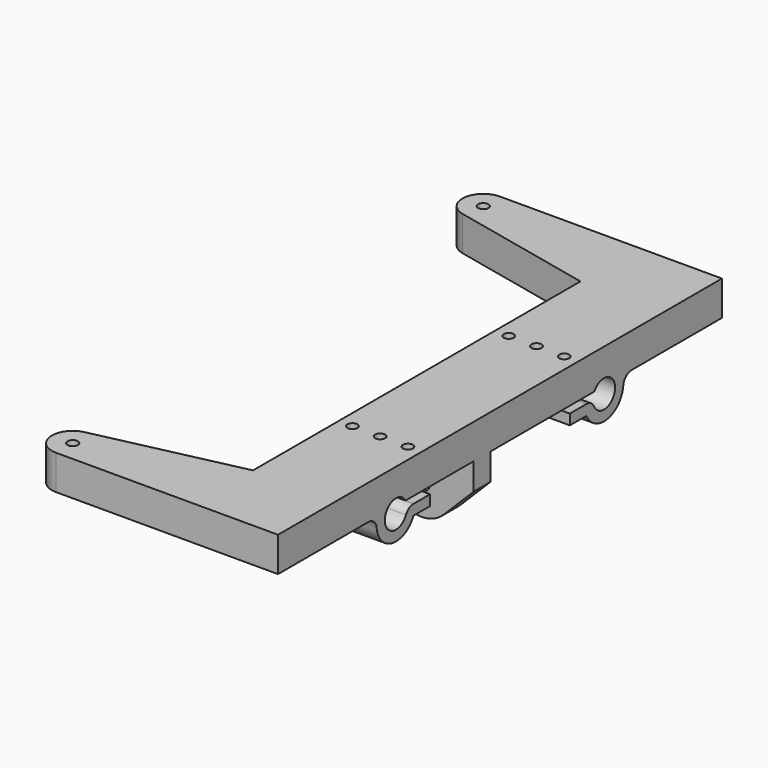
from build123d import *

# Parameters (mm, degrees)
SKETCH016_R        = 1.5
PAD011_DEPTH       = 10
SKETCH018_R        = 4
POCKET006005_DEPTH = 70.001
SKETCH019_W        = 2.985647
SKETCH019_H        = 2.199577
PAD012_DEPTH       = 24
SKETCH020_R        = 2.4
PAD013_DEPTH       = 6
SKETCH021_R        = 1.45
POCKET006006_DEPTH = 15.001


with BuildPart() as pocket006006:
    # Sketch016 → Pad011 (new body)
    with BuildSketch(Plane.XY.offset(2)):
        with BuildLine():
            ThreePointArc((-84.702782, 105.641821), (-80.035159, 112.152274), (-85.999598, 117.5))
            Line((-149.999599, 117.5), (-85.999598, 117.5))
            Line((-149.999599, -42.5), (-149.999599, 117.5))
            Line((-85.999599, -42.5), (-149.999599, -42.5))
            ThreePointArc((-85.999599, -42.5), (-80.035159, -37.152275), (-84.702781, -30.641821))
            Line((-125.999599, -21.5), (-84.702781, -30.641821))
            Line((-125.999599, 96.5), (-125.999599, -21.5))
            Line((-84.702782, 105.641821), (-125.999599, 96.5))
        make_face()
        with Locations((-85.999599, 111.5)):
            Circle(SKETCH016_R, mode=Mode.SUBTRACT)
        with Locations((-85.999599, -36.5)):
            Circle(SKETCH016_R, mode=Mode.SUBTRACT)
    extrude(amount=PAD011_DEPTH)

    # Sketch018 → Pocket006005 (cut, through all)
    with BuildSketch(Plane(origin=(-149.999599, 0, 2), x_dir=(0, -1, 0), z_dir=(-1, 0, 0))):
        with Locations((-75, -2)):
            Circle(SKETCH018_R)
        with Locations((0, -2)):
            Circle(SKETCH018_R)
    extrude(amount=-POCKET006005_DEPTH, mode=Mode.SUBTRACT)

    # Sketch019 → Pad012 (new body)
    with BuildSketch(Plane(origin=(-149.999599, 0, 2), x_dir=(0, -1, 0), z_dir=(-1, 0, 0))):
        with BuildLine():
            ThreePointArc((-3.614026, -3.714297), (1.858661, -5.541946), (3.464102, 0))
            Line((3.464102, 0), (9.949874, 0))
            ThreePointArc((9.949874, 0), (7.937413, -0.775141), (6.964912, -2.700001))
            ThreePointArc((-6.324555, -5), (1.193739, -8.897462), (6.964912, -2.700001))
            Line((-6.324555, -5), (-12.324555, -5))
            Line((-12.324555, -5), (-12.324555, -2))
            Line((-12.324555, -2), (-6.324546, -2))
            ThreePointArc((-3.614026, -3.714297), (-4.720978, -2.464543), (-6.324546, -2))
        make_face()
        with BuildLine():
            ThreePointArc((-78.464102, 0), (-76.858656, -5.541948), (-71.385969, -3.714287))
            ThreePointArc((-68.675445, -2), (-70.279013, -2.464538), (-71.385969, -3.714287))
            Line((-68.675445, -2), (-62.675445, -2))
            Line((-62.675445, -2), (-62.675445, -5))
            Line((-62.675445, -5), (-68.675445, -5))
            ThreePointArc((-81.964912, -2.700001), (-76.193739, -8.897462), (-68.675445, -5))
            ThreePointArc((-81.964912, -2.700001), (-82.937413, -0.775141), (-84.949874, 0))
            Line((-84.949874, 0), (-78.464102, 0))
        make_face()
        with Locations((-32.507176, -1.099789)):
            Rectangle(SKETCH019_W, SKETCH019_H)
    extrude(amount=-PAD012_DEPTH)

    # Sketch020 → Pad013 (new body)
    with BuildSketch(Plane(origin=(0, 34, 2), x_dir=(-1, 0, 0), z_dir=(0, 1, 0))):
        with BuildLine():
            Line((149.999599, 0), (125.999599, 0))
            Line((125.999599, 0), (125.999599, -9.999972))
            ThreePointArc((125.999599, -9.999972), (131.555682, -18.315281), (141.364245, -16.364245))
            Line((141.364245, -16.364245), (149.999599, -7.728891))
            Line((149.999599, -7.728891), (149.999599, 0))
        make_face()
        with Locations((135, -10)):
            Circle(SKETCH020_R, mode=Mode.SUBTRACT)
    extrude(amount=-PAD013_DEPTH)

    # Sketch021 → Pocket006006 (cut, through all)
    with BuildSketch(Plane(origin=(0, 0, -3), x_dir=(1, 0, 0), z_dir=(0, 0, -1))):
        with Locations((-145.999599, -9.324555)):
            Circle(SKETCH021_R)
        with Locations((-137.999599, -9.324555)):
            Circle(SKETCH021_R)
        with Locations((-129.999599, -9.324555)):
            Circle(SKETCH021_R)
        with Locations((-145.999599, -65.675445)):
            Circle(SKETCH021_R)
        with Locations((-137.999599, -65.675445)):
            Circle(SKETCH021_R)
        with Locations((-129.999599, -65.675445)):
            Circle(SKETCH021_R)
    extrude(amount=-POCKET006006_DEPTH, mode=Mode.SUBTRACT)


with BuildPart() as part_mirroring:
    # Part__Mirroring: instance of Pocket006006
    add(pocket006006.part.mirror(Plane(origin=(0, 0, 0), x_dir=(0, -1, 0), z_dir=(1, 0, 0))))


solid = part_mirroring.part
